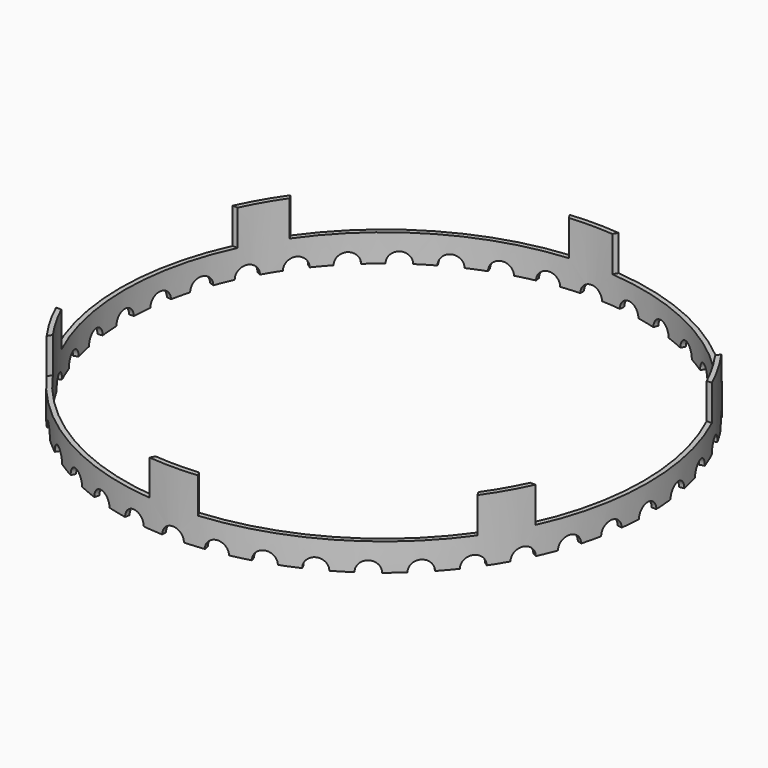
from build123d import *

# Parameters (mm, degrees)
CYLINDER001_R         = 65.8
CYLINDER001_DEPTH     = 18.5
CYLINDER_R            = 67
CYLINDER_DEPTH        = 16
SKETCH_W              = 10
SKETCH_H              = 2.75
POLARPATTERN_COUNT    = 40
SKETCH001_W           = 25
SKETCH001_H           = 56
POCKET_DEPTH          = 9
POLARPATTERN001_COUNT = 6


with BuildPart() as cylinder001:
    # Cylinder001 → Cylinder001 (new body)
    with BuildSketch(Plane.XY):
        Circle(CYLINDER001_R)
    extrude(amount=CYLINDER001_DEPTH)


with BuildPart() as polarpattern001:
    # Cylinder → Cylinder (new body)
    with BuildSketch(Plane.XY):
        Circle(CYLINDER_R)
    extrude(amount=CYLINDER_DEPTH)

    # Cut: cut Cylinder001
    add(cylinder001.part, mode=Mode.SUBTRACT)

    # Sketch → Groove (revolve, cut)
    with BuildSketch(Plane(origin=(0, 0, 0), x_dir=(1, 0, 0), z_dir=(0, 0, -1))):
        with Locations((65, 1.375)):
            Rectangle(SKETCH_W, SKETCH_H)
    groove = revolve(axis=Axis((0, 0, 0), (1, 0, 0)), mode=Mode.SUBTRACT)

    # PolarPattern: Groove ×40 about axis
    polarpattern_axis = Axis((0, 0, 0), (0, 0, -1))
    for i in range(1, POLARPATTERN_COUNT):
        add(groove.rotate(polarpattern_axis, i * 360 / POLARPATTERN_COUNT), mode=Mode.SUBTRACT)

    # Sketch001 → Pocket (cut)
    with BuildSketch(Plane.XY.offset(16)):
        with Locations((62.5, 0)):
            Rectangle(SKETCH001_W, SKETCH001_H)
    pocket = extrude(amount=-POCKET_DEPTH, mode=Mode.SUBTRACT)

    # PolarPattern001: Pocket ×6 about axis
    polarpattern001_axis = Axis((0, 0, 16), (0, 0, 1))
    for i in range(1, POLARPATTERN001_COUNT):
        add(pocket.rotate(polarpattern001_axis, i * 360 / POLARPATTERN001_COUNT), mode=Mode.SUBTRACT)


solid = polarpattern001.part
